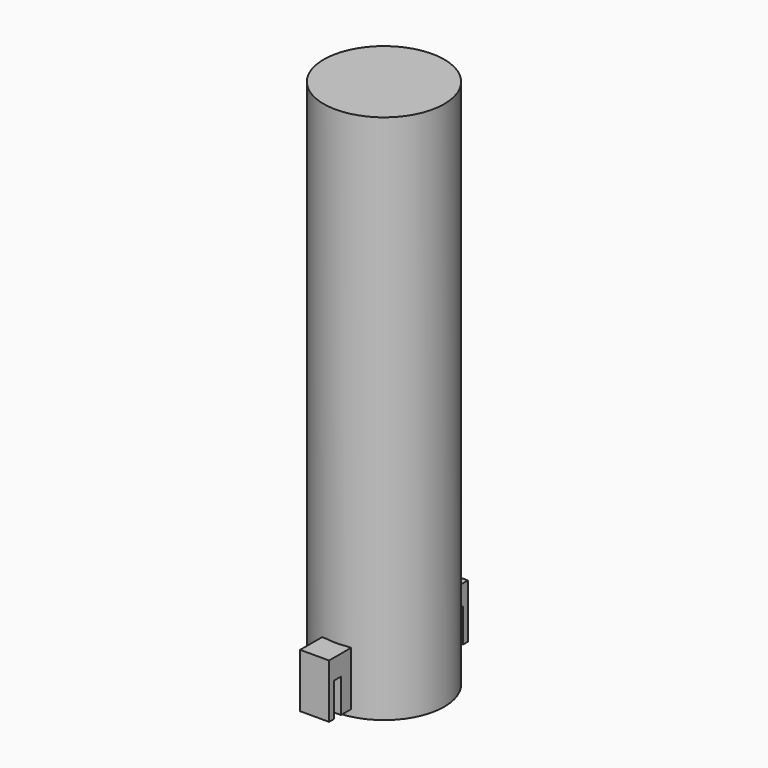
from build123d import *

# Parameters (mm, degrees)
F0_R     = 6.25
F1_DEPTH = 55
F3_DEPTH = 1.5


with BuildPart() as f1:
    # F0 (on Top) → F1 (new body)
    with BuildSketch(Plane.XY):
        Circle(F0_R)
    extrude(amount=F1_DEPTH)

    # F2 (on Right) → F3 (join, symmetric)
    with BuildSketch(Plane.YZ):
        Polygon((-6.147161, 0.726986), (-6.147161, 6.331195), (-8.991088, 6.331195), (-8.991088, 0.726986), (-8.38057, 0.726986), (-8.38057, 4.238068), (-7.446386, 4.238068), (-7.446386, 0.726986), align=None)
        Polygon((8.991088, 6.331195), (6.147161, 6.331195), (6.147161, 0.726986), (7.446386, 0.726986), (7.446386, 4.238068), (8.38057, 4.238068), (8.38057, 0.726986), (8.991088, 0.726986), align=None)
    extrude(amount=F3_DEPTH, both=True)


solid = f1.part
